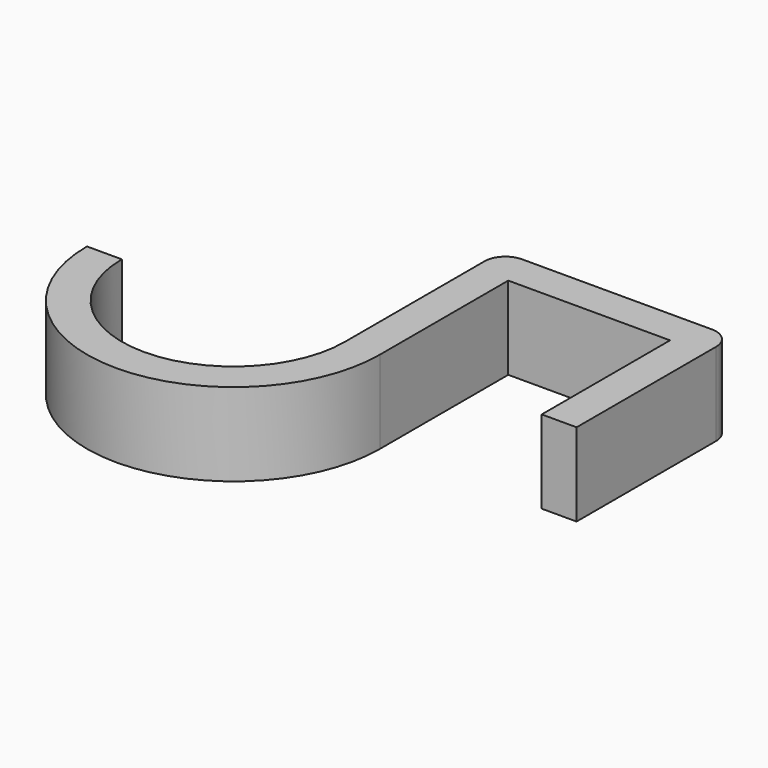
from build123d import *

# Parameters (mm, degrees)
F1_DEPTH = 11.9
F2_R     = 3


with BuildPart() as f1:
    # F0 (on Top) → F1 (new body)
    with BuildSketch(Plane.XY):
        with BuildLine():
            Line((0, 23), (0, 0))
            Line((0, 0), (5, 0))
            Line((5, 0), (5, 28))
            Line((5, 28), (-28.2, 28))
            Line((-28.2, 28), (-28.2, 0))
            ThreePointArc((-28.2, 0), (-44.2, -16), (-60.2, 0))
            Line((-60.2, 0), (-65.200001, 0))
            ThreePointArc((-65.200001, 0), (-44.2, -21), (-23.2, 0))
            Line((-23.2, 0), (-23.2, 23))
            Line((-23.2, 23), (0, 23))
        make_face()
    extrude(amount=F1_DEPTH)

    # F2
    f2_edges = [f1.edges().sort_by_distance(p)[0] for p in [
        (-28.2, 28, 5.95),
        (5, 28, 5.95),
    ]]
    fillet(f2_edges, radius=F2_R)


solid = f1.part
